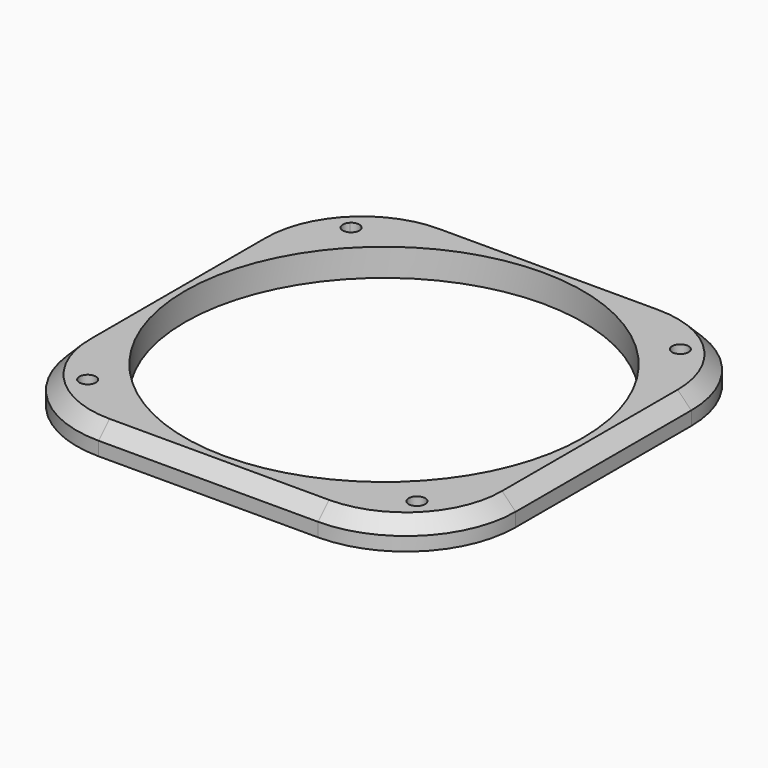
from build123d import *

# Parameters (mm, degrees)
F0_W     = 32
F0_H     = 32
F0_R     = 0.6
F0_R_2   = 14.5
F1_DEPTH = 2
F2_R     = 8
F3_SIZE  = 1


with BuildPart() as f1:
    # F0 (on Top) → F1 (new body)
    with BuildSketch(Plane.XY):
        with Locations((16, -16)):
            Rectangle(F0_W, F0_H)
        with Locations((4, -28)):
            Circle(F0_R, mode=Mode.SUBTRACT)
        with BuildLine():
            ThreePointArc((28.6, -28), (28.5543277195, -28.2296100594), (28.4242640687, -28.4242640687))
            ThreePointArc((28.4242640687, -28.4242640687), (27.4456722805, -27.7703899406), (28.6, -28))
        make_face(mode=Mode.SUBTRACT)
        with BuildLine():
            ThreePointArc((4.6, -4), (3.7703899406, -4.5543277195), (3.5757359313, -3.5757359313))
            ThreePointArc((3.5757359313, -3.5757359313), (4.2296100594, -3.4456722805), (4.6, -4))
        make_face(mode=Mode.SUBTRACT)
        with Locations((16, -16)):
            Circle(F0_R_2, mode=Mode.SUBTRACT)
        with Locations((28, -4)):
            Circle(F0_R, mode=Mode.SUBTRACT)
    extrude(amount=F1_DEPTH)

    # F2
    f2_edges = [f1.edges().sort_by_distance(p)[0] for p in [
        (32, 0, 1),
        (0, 0, 1),
        (0, -32, 1),
        (32, -32, 1),
    ]]
    fillet(f2_edges, radius=F2_R)

    # F3
    f3_edges = [f1.edges().sort_by_distance(p)[0] for p in [
        (2.343146, -2.343146, 2),
    ]]
    chamfer(f3_edges, length=F3_SIZE)


solid = f1.part
